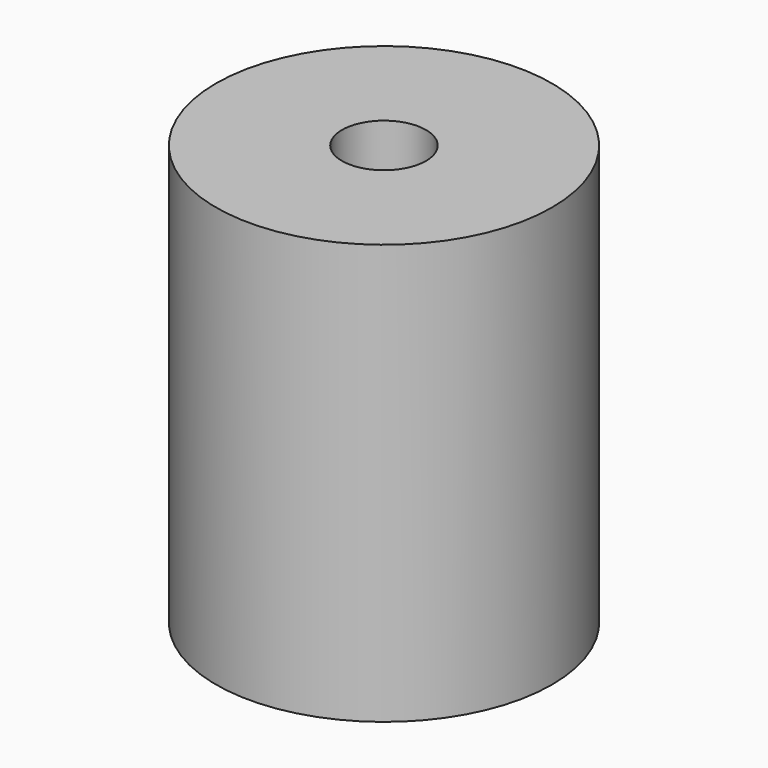
from build123d import *

# Parameters (mm, degrees)
F0_R     = 10
F1_DEPTH = 7.5
F2_R     = 10
F3_DEPTH = 10
F4_R     = 10
F5_DEPTH = 7.5
F6_R     = 2.5
F7_DEPTH = 25
F8_R     = 4
F9_DEPTH = 10


with BuildPart() as f1:
    # F0 (on Top) → F1 (new body)
    with BuildSketch(Plane.XY):
        Circle(F0_R)
    extrude(amount=F1_DEPTH)

    # F2 (on face) → F3 (join)
    with BuildSketch(Plane.XY.offset(7.5)):
        Circle(F2_R)
    extrude(amount=F3_DEPTH)

    # F4 (on face) → F5 (join)
    with BuildSketch(Plane.XY.offset(17.5)):
        Circle(F4_R)
    extrude(amount=F5_DEPTH)

    # F6 (on face) → F7 (cut)
    with BuildSketch(Plane.XY.offset(25)):
        Circle(F6_R)
    extrude(amount=-F7_DEPTH, mode=Mode.SUBTRACT)

    # F8 (on face) → F9 (cut)
    with BuildSketch(Plane(origin=(0, 0, 0), x_dir=(1, 0, 0), z_dir=(0, 0, -1))):
        Circle(F8_R)
    extrude(amount=-F9_DEPTH, mode=Mode.SUBTRACT)


solid = f1.part
